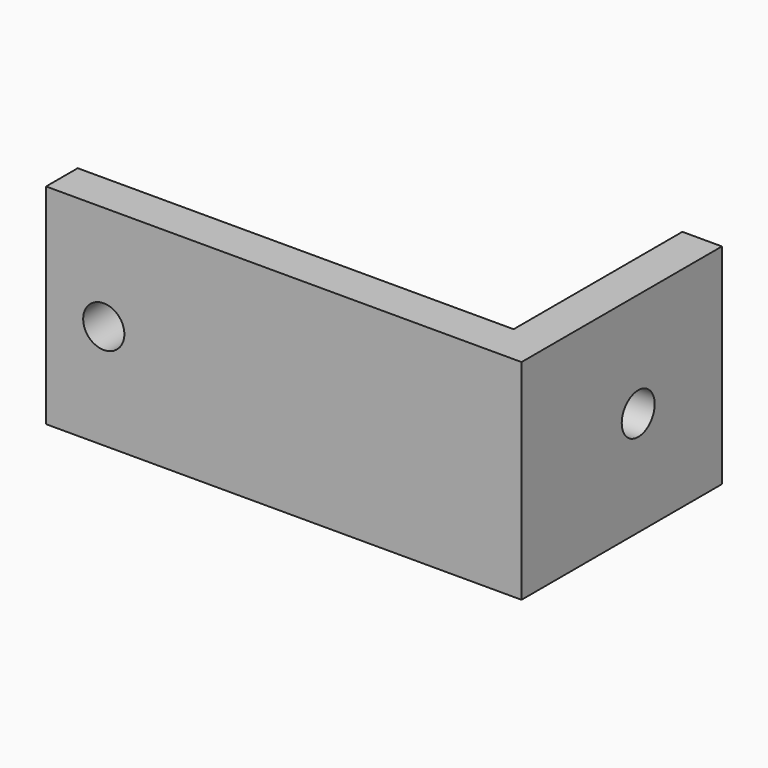
from build123d import *

# Parameters (mm, degrees)
F0_W     = 27.3
F0_H     = 5
F1_DEPTH = 25.4
F2_R     = 2.5
F3_DEPTH = 5.001
F4_R     = 2.5
F5_DEPTH = 5.001
F6_W     = 52.7
F6_H     = 0.2
F7_DEPTH = 25.401


with BuildPart() as f1:
    # F0 (on Top) → F1 (new body)
    with BuildSketch(Plane.XY):
        Polygon((5, 25.4), (0, 25.4), (0, 0), (-25.4, 0), (-25.4, -5), (5, -5), (5, 0), align=None)
        with Locations((-39.05, -2.5)):
            Rectangle(F0_W, F0_H)
    extrude(amount=F1_DEPTH)

    # F2 (on face) → F3 (cut, through all)
    with BuildSketch(Plane(origin=(0, 0, 0), x_dir=(0, -1, 0), z_dir=(-1, 0, 0))):
        with Locations((-12.7, 12.7)):
            Circle(F2_R)
    extrude(amount=-F3_DEPTH, mode=Mode.SUBTRACT)

    # F4 (on face) → F5 (cut, through all)
    with BuildSketch(Plane(origin=(0, 0, 0), x_dir=(-1, 0, 0), z_dir=(0, 1, 0))):
        with Locations((45.7, 12.7)):
            Circle(F4_R)
    extrude(amount=-F5_DEPTH, mode=Mode.SUBTRACT)

    # F6 (on face) → F7 (cut, through all)
    with BuildSketch(Plane.XY.offset(25.4)):
        with Locations((-26.35, -0.1)):
            Rectangle(F6_W, F6_H)
        Polygon((0, 25.4), (0, 0), (0, -0.2), (0.2, -0.2), (0.2, 25.4), align=None)
    extrude(amount=-F7_DEPTH, mode=Mode.SUBTRACT)


solid = f1.part
